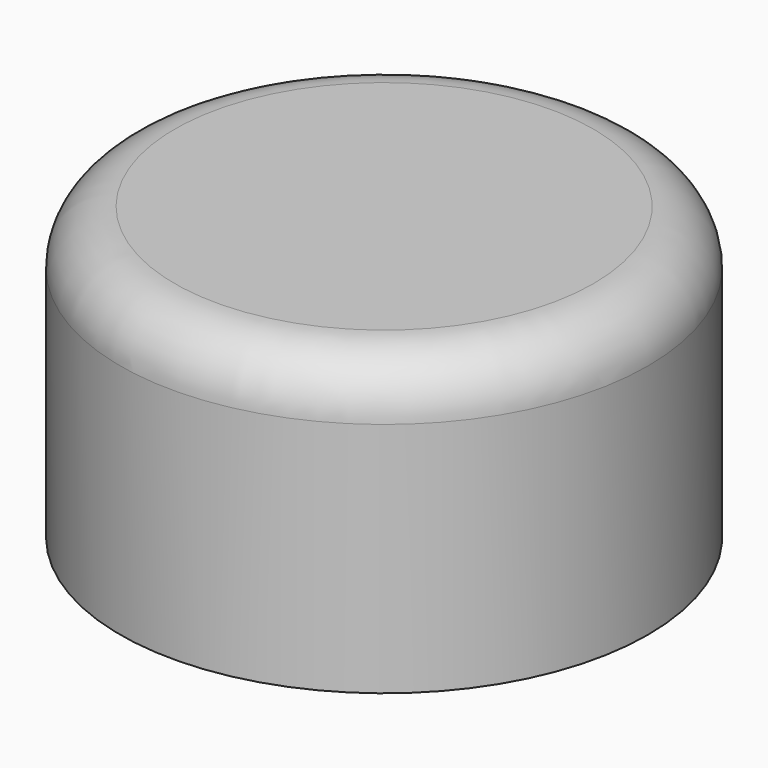
from build123d import *

# Parameters (mm, degrees)
F0_R     = 14.5
F0_R_2   = 11.5
F1_DEPTH = 13
F2_R     = 14.5
F2_R_2   = 11.5
F3_DEPTH = 3
F4_R     = 3


with BuildPart() as f1:
    # F0 (on Top) → F1 (new body)
    with BuildSketch(Plane.XY):
        Circle(F0_R)
        Circle(F0_R_2, mode=Mode.SUBTRACT)
        Circle(F0_R)
        Circle(F0_R_2, mode=Mode.SUBTRACT)
    extrude(amount=F1_DEPTH)

    # F2 (on face) → F3 (join)
    with BuildSketch(Plane.XY.offset(13)):
        Circle(F2_R)
        Circle(F2_R_2, mode=Mode.SUBTRACT)
        Circle(F2_R_2)
    extrude(amount=F3_DEPTH)

    # F4
    f4_edges = [f1.edges().sort_by_distance(p)[0] for p in [
        (-14.5, 0, 16),
    ]]
    fillet(f4_edges, radius=F4_R)


solid = f1.part
